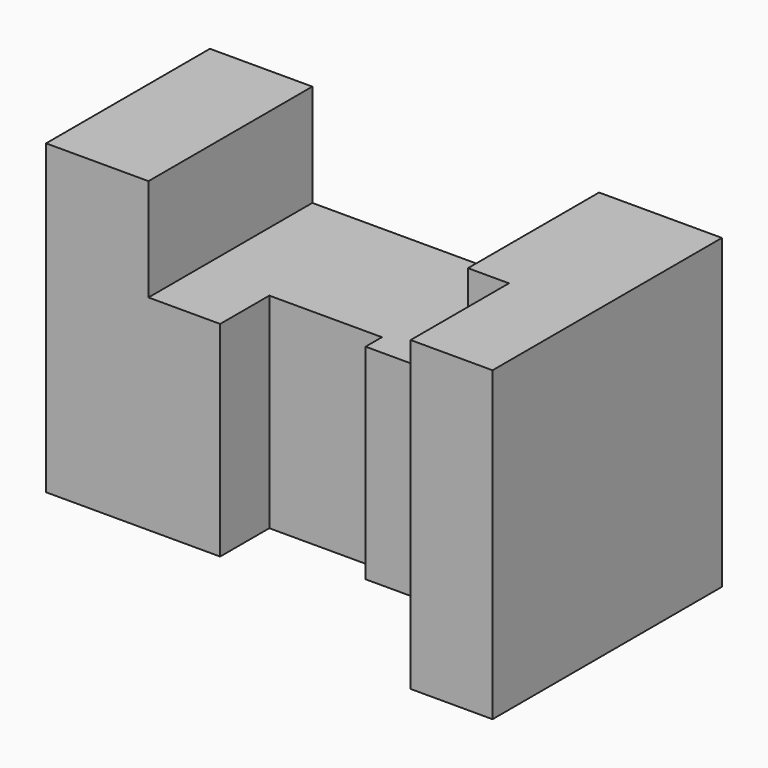
from build123d import *

# Parameters (mm, degrees)
F1_DEPTH = 50
F2_W     = 25
F2_H     = 50
F2_W_2   = 10
F2_H_2   = 40
F3_DEPTH = 25


with BuildPart() as f1:
    # F0 (on Top) → F1 (new body)
    with BuildSketch(Plane.XY):
        Polygon((125, 0), (0, 0), (0, -50), (42.5, -50), (42.5, -35), (70, -35), (70, -40), (105, -40), (105, -70), (125, -70), align=None)
    extrude(amount=F1_DEPTH)

    # F2 (on face) → F3 (join)
    with BuildSketch(Plane.XY.offset(50)):
        with Locations((12.5, -25)):
            Rectangle(F2_W, F2_H)
        Polygon((105, -40), (105, -70), (125, -70), (125, 0), (105, 0), align=None)
        with Locations((100, -20)):
            Rectangle(F2_W_2, F2_H_2)
    extrude(amount=F3_DEPTH)


solid = f1.part
